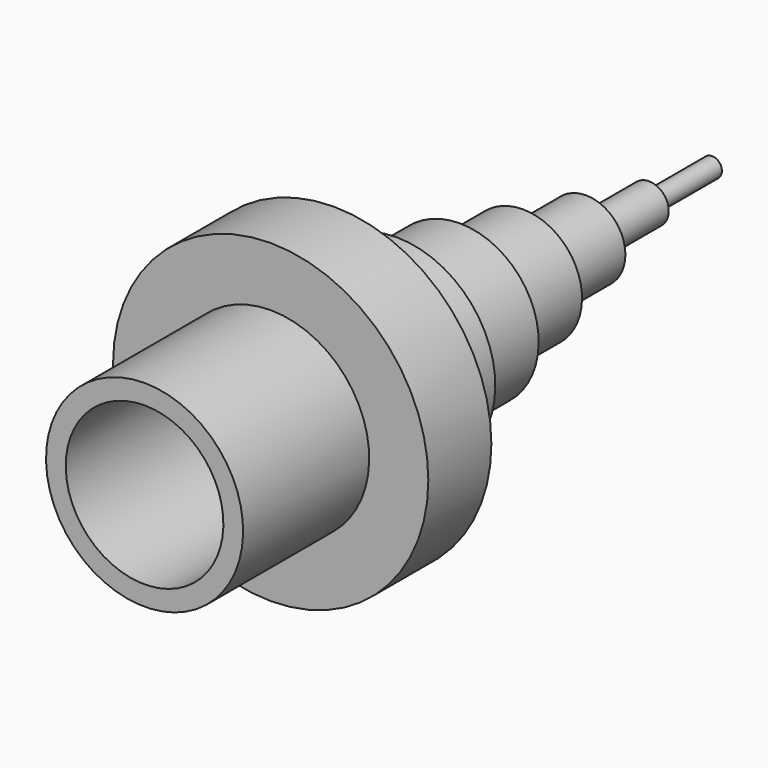
from build123d import *


with BuildPart() as f1:
    # F0 (on Right) → F1 (revolve)
    with BuildSketch(Plane.YZ):
        Polygon((0, 25), (0, 20), (40, 20), (40, 0), (180, 0), (180, 2.5), (160, 2.5), (160, 5), (140, 5), (140, 10), (120, 10), (120, 15), (100, 15), (100, 20), (80, 20), (80, 25), (60, 25), (60, 40), (40, 40), (40, 25), align=None)
    revolve(axis=Axis((0, 90, 0), (0, -1, 0)))


solid = f1.part
